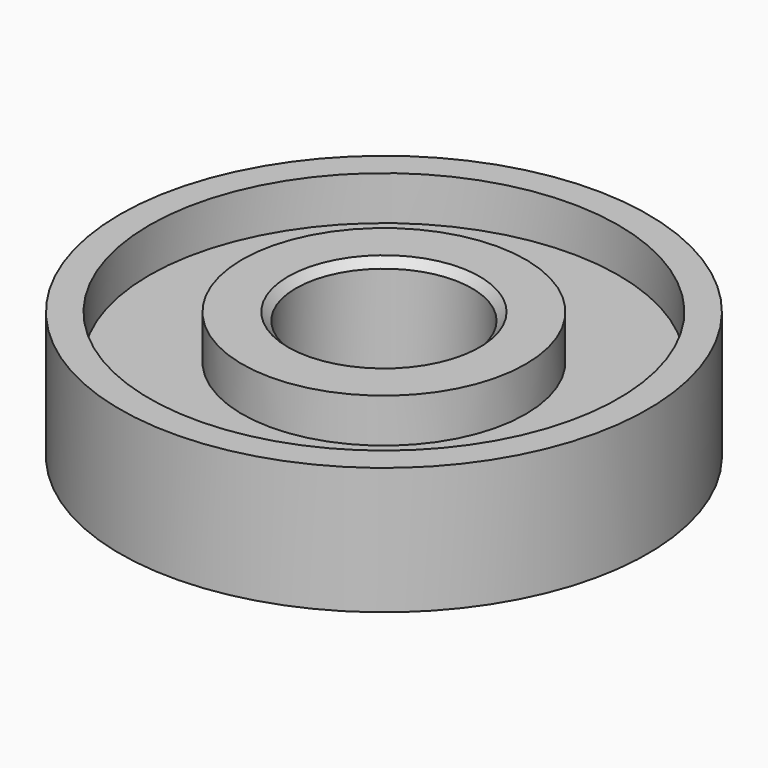
from build123d import *

# Parameters (mm, degrees)
F0_W    = 1.5
F0_H    = 2.25
F0_H_2  = 2
F0_W_2  = 4.75
F0_W_3  = 2.75
F2_SIZE = 0.4


with BuildPart() as f1:
    # F0 (on Front) → F1 (revolve)
    with BuildSketch(Plane.XZ):
        with Locations((-12.75, 2.125)):
            Rectangle(F0_W, F0_H)
        with Locations((-12.75, 0)):
            Rectangle(F0_W, F0_H_2)
        with Locations((-12.75, -2.125)):
            Rectangle(F0_W, F0_H)
        with Locations((-9.625, 0)):
            Rectangle(F0_W_2, F0_H_2)
        with Locations((-5.875, 2.125)):
            Rectangle(F0_W_3, F0_H)
        with Locations((-5.875, 0)):
            Rectangle(F0_W_3, F0_H_2)
        with Locations((-5.875, -2.125)):
            Rectangle(F0_W_3, F0_H)
    revolve(axis=Axis((0, 0, -0.9328033775), (0, 0, -1)))

    # F2
    f2_edges = [f1.edges().sort_by_distance(p)[0] for p in [
        (4.5, 0, 3.25),
        (4.5, 0, -3.25),
    ]]
    chamfer(f2_edges, length=F2_SIZE)


solid = f1.part
